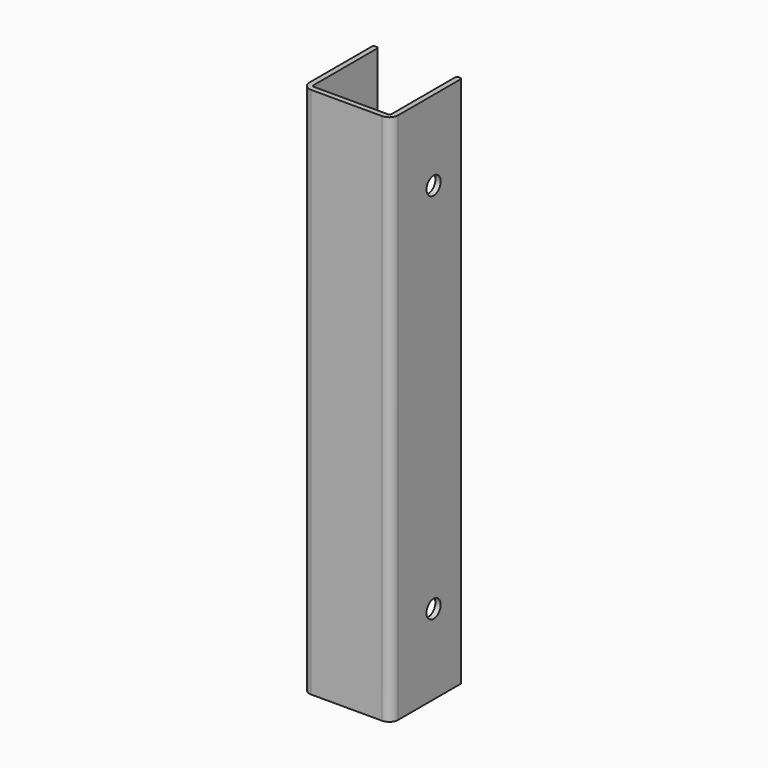
from build123d import *

# Parameters (mm, degrees)
F0_W     = 50
F0_H     = 300
F1_DEPTH = 50
F2_T     = -3
F3_R     = 5
F4_R     = 1
F5_R     = 5
F6_DEPTH = 50.001


with BuildPart() as f1:
    # F0 (on Front) → F1 (new body)
    with BuildSketch(Plane.XZ):
        with Locations((25, 150)):
            Rectangle(F0_W, F0_H)
    extrude(amount=F1_DEPTH)

    # F2
    f2_openings = [f1.faces().sort_by_distance(p)[0] for p in [
        (25, -25, 0),
        (25, 0, 150),
        (25, -25, 300),
    ]]
    offset(amount=F2_T, openings=f2_openings)

    # F3
    f3_edges = [f1.edges().sort_by_distance(p)[0] for p in [
        (50, -50, 150),
        (0, -50, 150),
    ]]
    fillet(f3_edges, radius=F3_R)

    # F4
    f4_edges = [f1.edges().sort_by_distance(p)[0] for p in [
        (47, 0, 150),
        (50, 0, 150),
        (3, 0, 150),
        (0, 0, 150),
        (3, -47, 150),
        (47, -47, 150),
    ]]
    fillet(f4_edges, radius=F4_R)

    # F5 (on face) → F6 (cut, through all)
    with BuildSketch(Plane(origin=(0, 0, 0), x_dir=(0, -1, 0), z_dir=(-1, 0, 0))):
        with Locations((20, 255)):
            Circle(F5_R)
        with Locations((20, 45)):
            Circle(F5_R)
    extrude(amount=-F6_DEPTH, mode=Mode.SUBTRACT)


solid = f1.part
